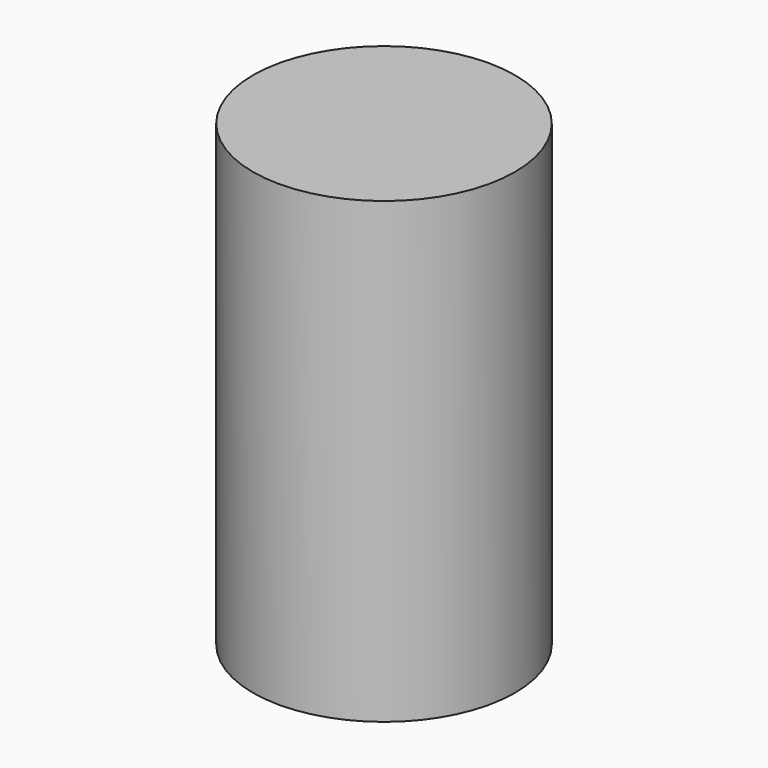
from build123d import *

# Parameters (mm, degrees)
SKETCH_R  = 2
PAD_DEPTH = 7


with BuildPart() as part:
    # Sketch → Pad (new body)
    with BuildSketch(Plane.XY):
        Circle(SKETCH_R)
    extrude(amount=PAD_DEPTH)


solid = part.part
